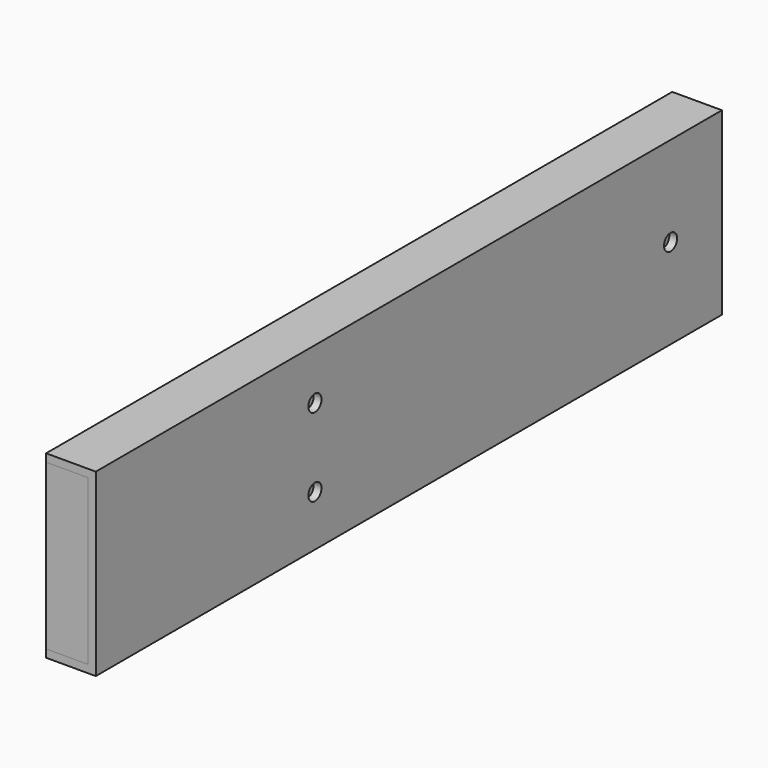
from build123d import *

# Parameters (mm, degrees)
F0_DEPTH = 200
F5_D     = 4.2
F6_W     = 10.7
F6_H     = 42
F1_DEPTH = 200
F2_D     = 5


with BuildPart() as f0:
    # F3 (on Front) → F0 (new body)
    with BuildSketch(Plane.XZ):
        Polygon((0, 2), (0, 0), (12.7, 0), (12.7, 46), (0, 46), (0, 44), (10.7, 44), (10.7, 2), align=None)
    extrude(amount=F0_DEPTH)

    # F5 (through all)
    with Locations(Plane(origin=(10.7, 0, 0), x_dir=(0, -1, 0), z_dir=(-1, 0, 0))):
        with Locations((130, 13), (130, 33), (16.4, 23)):
            Hole(F5_D / 2)


with BuildPart() as f1:
    # F6 (on Front) → F1 (new body)
    with BuildSketch(Plane.XZ):
        with Locations((5.35, 23)):
            Rectangle(F6_W, F6_H)
    extrude(amount=F1_DEPTH)

    # F2 (through all)
    with Locations(Plane(origin=(0, 0, 0), x_dir=(0, -1, 0), z_dir=(-1, 0, 0))):
        with Locations((133.5, 23), (33.5, 23)):
            Hole(F2_D / 2)


solid = Compound([f0.part, f1.part])
